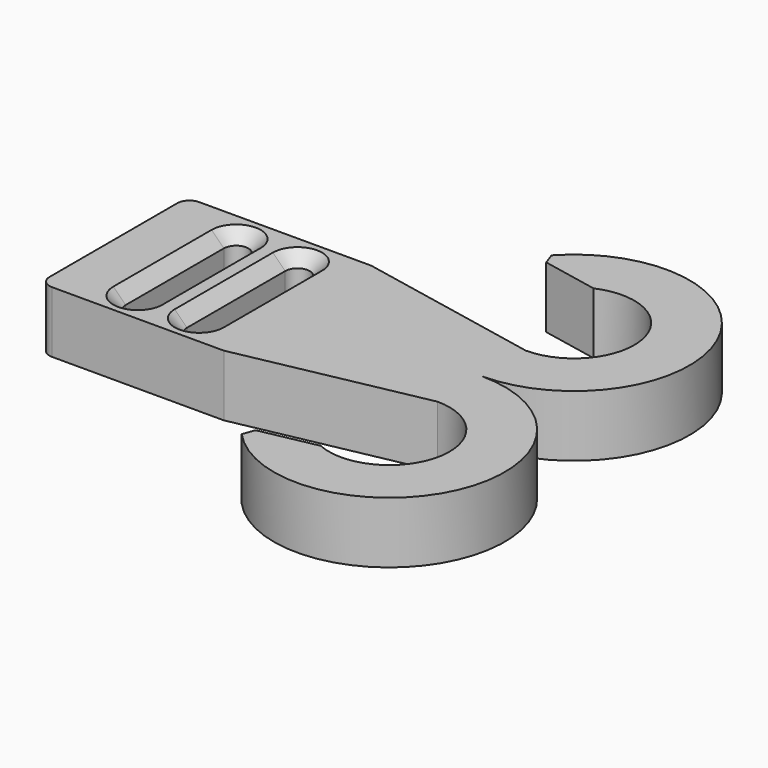
from build123d import *

# Parameters (mm, degrees)
PAD_DEPTH    = 5
POCKET_DEPTH = 5
CHAMFER_SIZE = 1
FILLET_R     = 1


with BuildPart() as part:
    # Sketch → Pad (new body)
    with BuildSketch(Plane.XY):
        with BuildLine():
            Line((0, 15), (0, 0))
            Line((0, 0), (15, 0))
            Line((15, 0), (30, 3))
            ThreePointArc((28, -6.38736), (34.799024, -2.929176), (30, 3))
            Line((28, -6.38736), (22.436801, -7.5))
            ThreePointArc((22.436801, -7.5), (38.399434, -6.141839), (30, 7.5))
            ThreePointArc((30, 7.5), (38.399434, 21.141839), (22.436801, 22.5))
            Line((22.436801, 22.5), (28, 21.38736))
            ThreePointArc((30, 12), (34.799024, 17.929176), (28, 21.38736))
            Line((15, 15), (30, 12))
            Line((0, 15), (15, 15))
        make_face()
    extrude(amount=PAD_DEPTH)

    # Sketch001 (on Face13 of Pad) → Pocket (cut)
    with BuildSketch(Plane.XY.offset(5)):
        with BuildLine():
            ThreePointArc((7, 12.5), (6, 13.5), (5, 12.5))
            Line((5, 12.5), (5, 2.5))
            ThreePointArc((5, 2.5), (6, 1.5), (7, 2.5))
            Line((7, 12.5), (7, 2.5))
        make_face()
        with BuildLine():
            ThreePointArc((12, 12.5), (11, 13.5), (10, 12.5))
            Line((10, 12.5), (10, 2.5))
            ThreePointArc((10, 2.5), (11, 1.5), (12, 2.5))
            Line((12, 12.5), (12, 2.5))
        make_face()
    extrude(amount=-POCKET_DEPTH, mode=Mode.SUBTRACT)

    # Chamfer
    chamfer_edges = [part.edges().sort_by_distance(p)[0] for p in [
        (7, 7.5, 5),
        (10, 7.5, 5),
        (7, 7.5, 0),
        (10, 7.5, 0),
        (22.436801, 22.5, 2.5),
        (22.436801, -7.5, 2.5),
    ]]
    chamfer(chamfer_edges, length=CHAMFER_SIZE)

    # Fillet
    fillet_edges = [part.edges().sort_by_distance(p)[0] for p in [
        (0, 15, 2.5),
        (0, 0, 2.5),
    ]]
    fillet(fillet_edges, radius=FILLET_R)


solid = part.part
